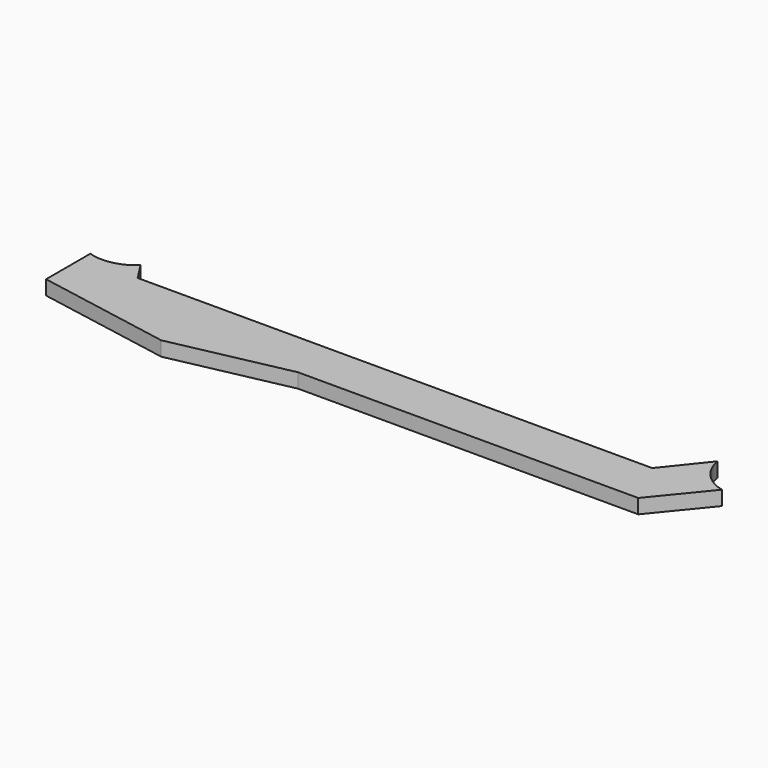
from build123d import *

# Parameters (mm, degrees)
F1_DEPTH = 25.4


with BuildPart() as f1:
    # F0 (on Top) → F1 (new body)
    with BuildSketch(Plane.XY):
        with BuildLine():
            Line((-598.63153, 20.612016), (-598.63153, -26.685108))
            Line((-598.63153, -26.685108), (-155.409321, -26.685108))
            Line((-155.409321, -26.685108), (-21.244745, -26.685108))
            Line((-21.244745, -26.685108), (398.019464, -26.685108))
            Line((398.019464, -26.685108), (443.539574, -26.685108))
            Line((443.539574, -26.685108), (517.961523, 64.387994))
            ThreePointArc((517.961523, 64.387994), (479.750323, 86.799485), (460.462438, 126.678655))
            Line((460.462438, 126.678655), (402.963337, 54.804808))
            Line((402.963337, 54.804808), (-16.300872, 54.804808))
            Line((-16.300872, 54.804808), (-502.674632, 54.804808))
            Line((-502.674632, 54.804808), (-523.322397, 87.012629))
            ThreePointArc((-523.322397, 87.012629), (-558.77114, 68.665729), (-598.63153, 70.756532))
            Line((-598.63153, 70.756532), (-598.63153, 20.612016))
        make_face()
        Polygon((-155.409321, -26.685108), (-598.63153, -26.685108), (-361.447743, -69.80943), align=None)
    extrude(amount=F1_DEPTH)


solid = f1.part
